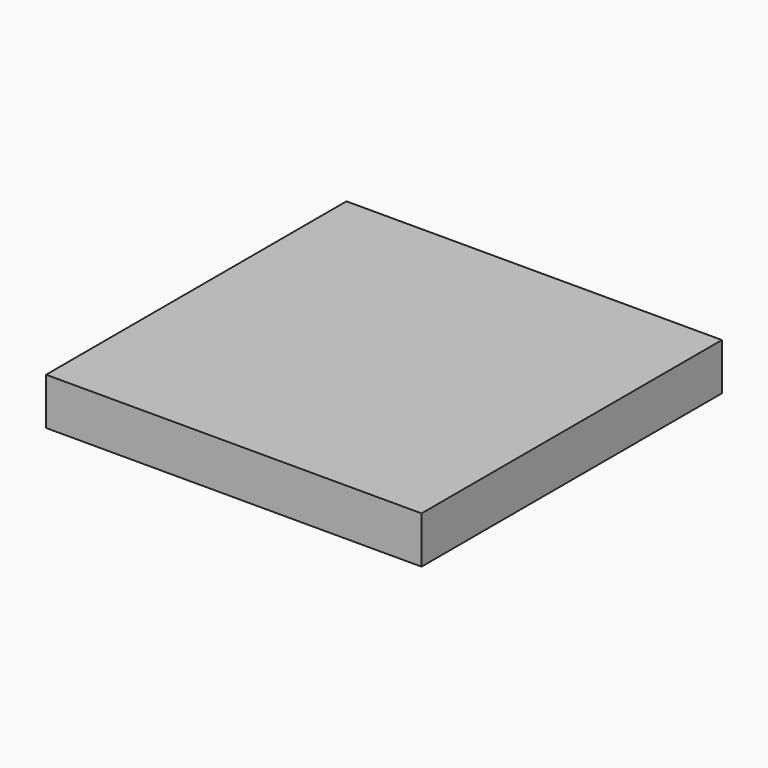
from build123d import *

# Parameters (mm, degrees)
F0_W     = 25.4
F0_H     = 25.4
F0_R     = 2.3
F0_R_2   = 0.8
F1_DEPTH = 3.175
F2_DEPTH = 6.35


with BuildPart() as f1:
    # F0 (on Top) → F1 (new body)
    with BuildSketch(Plane.XY):
        with Locations((12.7, 12.7)):
            Rectangle(F0_W, F0_H)
        with Locations((12.7, 12.7)):
            Circle(F0_R, mode=Mode.SUBTRACT)
        with Locations((12.7, 12.7)):
            Circle(F0_R)
        with Locations((12.7, 12.7)):
            Circle(F0_R_2, mode=Mode.SUBTRACT)
        with Locations((12.7, 12.7)):
            Circle(F0_R_2)
    extrude(amount=F1_DEPTH)

    # F0 (on Top) → F2 (join)
    with BuildSketch(Plane.XY):
        with Locations((12.7, 12.7)):
            Circle(F0_R)
        with Locations((12.7, 12.7)):
            Circle(F0_R_2, mode=Mode.SUBTRACT)
    extrude(amount=-F2_DEPTH)


solid = f1.part
